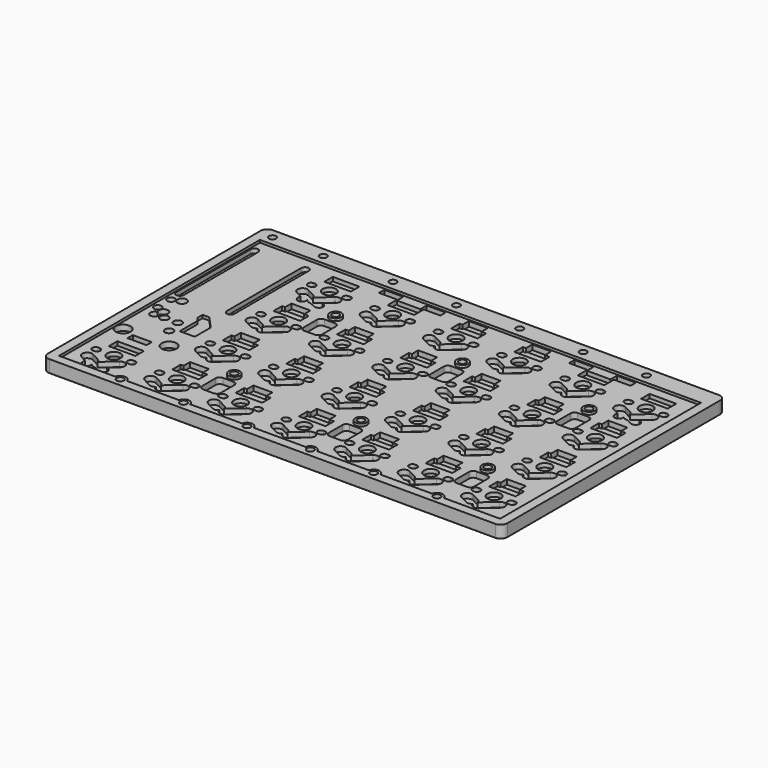
from build123d import *

# Parameters (mm, degrees)
PAD011_DEPTH    = 3
FILLET005_R     = 0.1
SKETCH025_R     = 2
POCKET008_DEPTH = 1.2
POCKET009_DEPTH = 1.5
POCKET017_DEPTH = 1.5
SKETCH027_W     = 8
SKETCH027_H     = 3.2
POCKET012_DEPTH = 1.2
POCKET013_DEPTH = 1.8
SKETCH031_W     = 5.7
SKETCH031_H     = 2
POCKET015_DEPTH = 1.5
SKETCH102_W     = 5.7
SKETCH102_H     = 0.4
SKETCH102_W_2   = 0.225
SKETCH102_W_3   = 0.725
POCKET068_DEPTH = 1.2
POCKET023_DEPTH = 0.9
POCKET021_DEPTH = 1.3
SKETCH034_R     = 2.25
SKETCH034_R_2   = 1.15
SKETCH034_R_3   = 1.4
SKETCH034_R_4   = 1.25
POCKET019_DEPTH = 1.7
PAD027_DEPTH    = 0.75
SKETCH071_W     = 132.6
SKETCH071_H     = 75.5
POCKET052_DEPTH = 0.75
SKETCH073_R     = 1.75
PAD025_DEPTH    = 0.75
SKETCH044_R     = 1.075
POCKET025_DEPTH = 4.501


with BuildPart() as part:
    # Sketch024 → Pad011 (new body)
    with BuildSketch(Plane.XY):
        with BuildLine():
            Line((9.15, 91.1), (143.25, 91.1))
            ThreePointArc((145.25, 89.1), (144.664214, 90.514214), (143.25, 91.1))
            Line((145.25, 89.1), (145.25, 9.15))
            ThreePointArc((143.25, 7.15), (144.664214, 7.735786), (145.25, 9.15))
            Line((143.25, 7.15), (9.15, 7.15))
            ThreePointArc((7.15, 9.15), (7.735786, 7.735786), (9.15, 7.15))
            Line((7.15, 9.15), (7.15, 89.1))
            ThreePointArc((9.15, 91.1), (7.735786, 90.514214), (7.15, 89.1))
        make_face()
    extrude(amount=-PAD011_DEPTH)

    # Fillet005
    fillet005_edges = [part.edges().sort_by_distance(p)[0] for p in [
        (76.2, 7.15, -3),
        (144.664214, 7.735786, -3),
        (145.25, 49.125, -3),
        (144.664214, 90.514214, -3),
        (76.2, 91.1, -3),
        (7.735786, 90.514214, -3),
        (7.15, 49.125, -3),
        (7.735786, 7.735786, -3),
    ]]
    fillet(fillet005_edges, radius=FILLET005_R)

    # Sketch025 → Pocket008 (cut)
    with BuildSketch(Plane.XY):
        with Locations((38.1, 76.2)):
            Circle(SKETCH025_R)
        with Locations((57.15, 76.2)):
            Circle(SKETCH025_R)
        with Locations((76.2, 76.2)):
            Circle(SKETCH025_R)
        with Locations((95.25, 76.2)):
            Circle(SKETCH025_R)
        with Locations((114.3, 76.2)):
            Circle(SKETCH025_R)
        with Locations((133.35, 76.2)):
            Circle(SKETCH025_R)
        with Locations((38.1, 57.15)):
            Circle(SKETCH025_R)
        with Locations((57.15, 57.15)):
            Circle(SKETCH025_R)
        with Locations((76.2, 57.15)):
            Circle(SKETCH025_R)
        with Locations((95.25, 57.15)):
            Circle(SKETCH025_R)
        with Locations((114.3, 57.15)):
            Circle(SKETCH025_R)
        with Locations((133.35, 57.15)):
            Circle(SKETCH025_R)
        with Locations((38.1, 38.1)):
            Circle(SKETCH025_R)
        with Locations((57.15, 38.1)):
            Circle(SKETCH025_R)
        with Locations((76.2, 38.1)):
            Circle(SKETCH025_R)
        with Locations((95.25, 38.1)):
            Circle(SKETCH025_R)
        with Locations((114.3, 38.1)):
            Circle(SKETCH025_R)
        with Locations((133.35, 38.1)):
            Circle(SKETCH025_R)
        with Locations((38.1, 19.05)):
            Circle(SKETCH025_R)
        with Locations((57.15, 19.05)):
            Circle(SKETCH025_R)
        with Locations((76.2, 19.05)):
            Circle(SKETCH025_R)
        with Locations((95.25, 19.05)):
            Circle(SKETCH025_R)
        with Locations((114.3, 19.05)):
            Circle(SKETCH025_R)
        with Locations((133.35, 19.05)):
            Circle(SKETCH025_R)
        with Locations((19.05, 19.05)):
            Circle(SKETCH025_R)
        with BuildLine():
            ThreePointArc((32.6, 77.2), (31.6, 76.2), (32.6, 75.2))
            Line((32.6, 75.2), (33.02, 75.2))
            ThreePointArc((33.02, 75.2), (34.02, 76.2), (33.02, 77.2))
            Line((32.6, 77.2), (33.02, 77.2))
        make_face()
        with BuildLine():
            ThreePointArc((43.18, 77.2), (42.18, 76.2), (43.18, 75.2))
            Line((43.18, 75.2), (43.6, 75.2))
            ThreePointArc((43.6, 75.2), (44.6, 76.2), (43.6, 77.2))
            Line((43.18, 77.2), (43.6, 77.2))
        make_face()
        with BuildLine():
            ThreePointArc((51.65, 77.2), (50.65, 76.2), (51.65, 75.2))
            Line((51.65, 75.2), (52.07, 75.2))
            ThreePointArc((52.07, 75.2), (53.07, 76.2), (52.07, 77.2))
            Line((51.65, 77.2), (52.07, 77.2))
        make_face()
        with BuildLine():
            ThreePointArc((62.23, 77.2), (61.23, 76.2), (62.23, 75.2))
            Line((62.23, 75.2), (62.65, 75.2))
            ThreePointArc((62.65, 75.2), (63.65, 76.2), (62.65, 77.2))
            Line((62.23, 77.2), (62.65, 77.2))
        make_face()
        with BuildLine():
            ThreePointArc((70.7, 77.2), (69.7, 76.2), (70.7, 75.2))
            Line((70.7, 75.2), (71.12, 75.2))
            ThreePointArc((71.12, 75.2), (72.12, 76.2), (71.12, 77.2))
            Line((70.7, 77.2), (71.12, 77.2))
        make_face()
        with BuildLine():
            ThreePointArc((81.28, 77.2), (80.28, 76.2), (81.28, 75.2))
            Line((81.28, 75.2), (81.7, 75.2))
            ThreePointArc((81.7, 75.2), (82.7, 76.2), (81.7, 77.2))
            Line((81.28, 77.2), (81.7, 77.2))
        make_face()
        with BuildLine():
            ThreePointArc((89.75, 77.2), (88.75, 76.2), (89.75, 75.2))
            Line((89.75, 75.2), (90.17, 75.2))
            ThreePointArc((90.17, 75.2), (91.17, 76.2), (90.17, 77.2))
            Line((89.75, 77.2), (90.17, 77.2))
        make_face()
        with BuildLine():
            ThreePointArc((100.33, 77.2), (99.33, 76.2), (100.33, 75.2))
            Line((100.33, 75.2), (100.75, 75.2))
            ThreePointArc((100.75, 75.2), (101.75, 76.2), (100.75, 77.2))
            Line((100.33, 77.2), (100.75, 77.2))
        make_face()
        with BuildLine():
            ThreePointArc((108.8, 77.2), (107.8, 76.2), (108.8, 75.2))
            Line((108.8, 75.2), (109.22, 75.2))
            ThreePointArc((109.22, 75.2), (110.22, 76.2), (109.22, 77.2))
            Line((108.8, 77.2), (109.22, 77.2))
        make_face()
        with BuildLine():
            ThreePointArc((119.38, 77.2), (118.38, 76.2), (119.38, 75.2))
            Line((119.38, 75.2), (119.8, 75.2))
            ThreePointArc((119.8, 75.2), (120.8, 76.2), (119.8, 77.2))
            Line((119.38, 77.2), (119.8, 77.2))
        make_face()
        with BuildLine():
            ThreePointArc((127.85, 77.2), (126.85, 76.2), (127.85, 75.2))
            Line((127.85, 75.2), (128.27, 75.2))
            ThreePointArc((128.27, 75.2), (129.27, 76.2), (128.27, 77.2))
            Line((127.85, 77.2), (128.27, 77.2))
        make_face()
        with BuildLine():
            ThreePointArc((138.43, 77.2), (137.43, 76.2), (138.43, 75.2))
            Line((138.43, 75.2), (138.85, 75.2))
            ThreePointArc((138.85, 75.2), (139.85, 76.2), (138.85, 77.2))
            Line((138.43, 77.2), (138.85, 77.2))
        make_face()
        with BuildLine():
            ThreePointArc((32.6, 58.15), (31.6, 57.15), (32.6, 56.15))
            Line((32.6, 56.15), (33.02, 56.15))
            ThreePointArc((33.02, 56.15), (34.02, 57.15), (33.02, 58.15))
            Line((32.6, 58.15), (33.02, 58.15))
        make_face()
        with BuildLine():
            ThreePointArc((43.18, 58.15), (42.18, 57.15), (43.18, 56.15))
            Line((43.18, 56.15), (43.6, 56.15))
            ThreePointArc((43.6, 56.15), (44.6, 57.15), (43.6, 58.15))
            Line((43.18, 58.15), (43.6, 58.15))
        make_face()
        with BuildLine():
            ThreePointArc((51.65, 58.15), (50.65, 57.15), (51.65, 56.15))
            Line((51.65, 56.15), (52.07, 56.15))
            ThreePointArc((52.07, 56.15), (53.07, 57.15), (52.07, 58.15))
            Line((51.65, 58.15), (52.07, 58.15))
        make_face()
        with BuildLine():
            ThreePointArc((62.23, 58.15), (61.23, 57.15), (62.23, 56.15))
            Line((62.23, 56.15), (62.65, 56.15))
            ThreePointArc((62.65, 56.15), (63.65, 57.15), (62.65, 58.15))
            Line((62.23, 58.15), (62.65, 58.15))
        make_face()
        with BuildLine():
            ThreePointArc((70.7, 58.15), (69.7, 57.15), (70.7, 56.15))
            Line((70.7, 56.15), (71.12, 56.15))
            ThreePointArc((71.12, 56.15), (72.12, 57.15), (71.12, 58.15))
            Line((70.7, 58.15), (71.12, 58.15))
        make_face()
        with BuildLine():
            ThreePointArc((81.28, 58.15), (80.28, 57.15), (81.28, 56.15))
            Line((81.28, 56.15), (81.7, 56.15))
            ThreePointArc((81.7, 56.15), (82.7, 57.15), (81.7, 58.15))
            Line((81.28, 58.15), (81.7, 58.15))
        make_face()
        with BuildLine():
            ThreePointArc((89.75, 58.15), (88.75, 57.15), (89.75, 56.15))
            Line((89.75, 56.15), (90.17, 56.15))
            ThreePointArc((90.17, 56.15), (91.17, 57.15), (90.17, 58.15))
            Line((89.75, 58.15), (90.17, 58.15))
        make_face()
        with BuildLine():
            ThreePointArc((100.33, 58.15), (99.33, 57.15), (100.33, 56.15))
            Line((100.33, 56.15), (100.75, 56.15))
            ThreePointArc((100.75, 56.15), (101.75, 57.15), (100.75, 58.15))
            Line((100.33, 58.15), (100.75, 58.15))
        make_face()
        with BuildLine():
            ThreePointArc((108.8, 58.15), (107.8, 57.15), (108.8, 56.15))
            Line((108.8, 56.15), (109.22, 56.15))
            ThreePointArc((109.22, 56.15), (110.22, 57.15), (109.22, 58.15))
            Line((108.8, 58.15), (109.22, 58.15))
        make_face()
        with BuildLine():
            ThreePointArc((119.38, 58.15), (118.38, 57.15), (119.38, 56.15))
            Line((119.38, 56.15), (119.8, 56.15))
            ThreePointArc((119.8, 56.15), (120.8, 57.15), (119.8, 58.15))
            Line((119.38, 58.15), (119.8, 58.15))
        make_face()
        with BuildLine():
            ThreePointArc((127.85, 58.15), (126.85, 57.15), (127.85, 56.15))
            Line((127.85, 56.15), (128.27, 56.15))
            ThreePointArc((128.27, 56.15), (129.27, 57.15), (128.27, 58.15))
            Line((127.85, 58.15), (128.27, 58.15))
        make_face()
        with BuildLine():
            ThreePointArc((138.43, 58.15), (137.43, 57.15), (138.43, 56.15))
            Line((138.43, 56.15), (138.85, 56.15))
            ThreePointArc((138.85, 56.15), (139.85, 57.15), (138.85, 58.15))
            Line((138.43, 58.15), (138.85, 58.15))
        make_face()
        with BuildLine():
            ThreePointArc((32.6, 39.1), (31.6, 38.1), (32.6, 37.1))
            Line((32.6, 37.1), (33.02, 37.1))
            ThreePointArc((33.02, 37.1), (34.02, 38.1), (33.02, 39.1))
            Line((32.6, 39.1), (33.02, 39.1))
        make_face()
        with BuildLine():
            ThreePointArc((43.18, 39.1), (42.18, 38.1), (43.18, 37.1))
            Line((43.18, 37.1), (43.6, 37.1))
            ThreePointArc((43.6, 37.1), (44.6, 38.1), (43.6, 39.1))
            Line((43.18, 39.1), (43.6, 39.1))
        make_face()
        with BuildLine():
            ThreePointArc((51.65, 39.1), (50.65, 38.1), (51.65, 37.1))
            Line((51.65, 37.1), (52.07, 37.1))
            ThreePointArc((52.07, 37.1), (53.07, 38.1), (52.07, 39.1))
            Line((51.65, 39.1), (52.07, 39.1))
        make_face()
        with BuildLine():
            ThreePointArc((62.23, 39.1), (61.23, 38.1), (62.23, 37.1))
            Line((62.23, 37.1), (62.65, 37.1))
            ThreePointArc((62.65, 37.1), (63.65, 38.1), (62.65, 39.1))
            Line((62.23, 39.1), (62.65, 39.1))
        make_face()
        with BuildLine():
            ThreePointArc((70.7, 39.1), (69.7, 38.1), (70.7, 37.1))
            Line((70.7, 37.1), (71.12, 37.1))
            ThreePointArc((71.12, 37.1), (72.12, 38.1), (71.12, 39.1))
            Line((70.7, 39.1), (71.12, 39.1))
        make_face()
        with BuildLine():
            ThreePointArc((81.28, 39.1), (80.28, 38.1), (81.28, 37.1))
            Line((81.28, 37.1), (81.7, 37.1))
            ThreePointArc((81.7, 37.1), (82.7, 38.1), (81.7, 39.1))
            Line((81.28, 39.1), (81.7, 39.1))
        make_face()
        with BuildLine():
            ThreePointArc((89.75, 39.1), (88.75, 38.1), (89.75, 37.1))
            Line((89.75, 37.1), (90.17, 37.1))
            ThreePointArc((90.17, 37.1), (91.17, 38.1), (90.17, 39.1))
            Line((89.75, 39.1), (90.17, 39.1))
        make_face()
        with BuildLine():
            ThreePointArc((100.33, 39.1), (99.33, 38.1), (100.33, 37.1))
            Line((100.33, 37.1), (100.75, 37.1))
            ThreePointArc((100.75, 37.1), (101.75, 38.1), (100.75, 39.1))
            Line((100.33, 39.1), (100.75, 39.1))
        make_face()
        with BuildLine():
            ThreePointArc((108.8, 39.1), (107.8, 38.1), (108.8, 37.1))
            Line((108.8, 37.1), (109.22, 37.1))
            ThreePointArc((109.22, 37.1), (110.22, 38.1), (109.22, 39.1))
            Line((108.8, 39.1), (109.22, 39.1))
        make_face()
        with BuildLine():
            ThreePointArc((119.38, 39.1), (118.38, 38.1), (119.38, 37.1))
            Line((119.38, 37.1), (119.8, 37.1))
            ThreePointArc((119.8, 37.1), (120.8, 38.1), (119.8, 39.1))
            Line((119.38, 39.1), (119.8, 39.1))
        make_face()
        with BuildLine():
            ThreePointArc((127.85, 39.1), (126.85, 38.1), (127.85, 37.1))
            Line((127.85, 37.1), (128.27, 37.1))
            ThreePointArc((128.27, 37.1), (129.27, 38.1), (128.27, 39.1))
            Line((127.85, 39.1), (128.27, 39.1))
        make_face()
        with BuildLine():
            ThreePointArc((138.43, 39.1), (137.43, 38.1), (138.43, 37.1))
            Line((138.43, 37.1), (138.85, 37.1))
            ThreePointArc((138.85, 37.1), (139.85, 38.1), (138.85, 39.1))
            Line((138.43, 39.1), (138.85, 39.1))
        make_face()
        with BuildLine():
            ThreePointArc((32.6, 20.05), (31.6, 19.05), (32.6, 18.05))
            Line((32.6, 18.05), (33.02, 18.05))
            ThreePointArc((33.02, 18.05), (34.02, 19.05), (33.02, 20.05))
            Line((32.6, 20.05), (33.02, 20.05))
        make_face()
        with BuildLine():
            ThreePointArc((43.18, 20.05), (42.18, 19.05), (43.18, 18.05))
            Line((43.18, 18.05), (43.6, 18.05))
            ThreePointArc((43.6, 18.05), (44.6, 19.05), (43.6, 20.05))
            Line((43.18, 20.05), (43.6, 20.05))
        make_face()
        with BuildLine():
            ThreePointArc((51.65, 20.05), (50.65, 19.05), (51.65, 18.05))
            Line((51.65, 18.05), (52.07, 18.05))
            ThreePointArc((52.07, 18.05), (53.07, 19.05), (52.07, 20.05))
            Line((51.65, 20.05), (52.07, 20.05))
        make_face()
        with BuildLine():
            ThreePointArc((62.23, 20.05), (61.23, 19.05), (62.23, 18.05))
            Line((62.23, 18.05), (62.65, 18.05))
            ThreePointArc((62.65, 18.05), (63.65, 19.05), (62.65, 20.05))
            Line((62.23, 20.05), (62.65, 20.05))
        make_face()
        with BuildLine():
            ThreePointArc((70.7, 20.05), (69.7, 19.05), (70.7, 18.05))
            Line((70.7, 18.05), (71.12, 18.05))
            ThreePointArc((71.12, 18.05), (72.12, 19.05), (71.12, 20.05))
            Line((70.7, 20.05), (71.12, 20.05))
        make_face()
        with BuildLine():
            ThreePointArc((81.28, 20.05), (80.28, 19.05), (81.28, 18.05))
            Line((81.28, 18.05), (81.7, 18.05))
            ThreePointArc((81.7, 18.05), (82.7, 19.05), (81.7, 20.05))
            Line((81.28, 20.05), (81.7, 20.05))
        make_face()
        with BuildLine():
            ThreePointArc((89.75, 20.05), (88.75, 19.05), (89.75, 18.05))
            Line((89.75, 18.05), (90.17, 18.05))
            ThreePointArc((90.17, 18.05), (91.17, 19.05), (90.17, 20.05))
            Line((89.75, 20.05), (90.17, 20.05))
        make_face()
        with BuildLine():
            ThreePointArc((100.33, 20.05), (99.33, 19.05), (100.33, 18.05))
            Line((100.33, 18.05), (100.75, 18.05))
            ThreePointArc((100.75, 18.05), (101.75, 19.05), (100.75, 20.05))
            Line((100.33, 20.05), (100.75, 20.05))
        make_face()
        with BuildLine():
            ThreePointArc((108.8, 20.05), (107.8, 19.05), (108.8, 18.05))
            Line((108.8, 18.05), (109.22, 18.05))
            ThreePointArc((109.22, 18.05), (110.22, 19.05), (109.22, 20.05))
            Line((108.8, 20.05), (109.22, 20.05))
        make_face()
        with BuildLine():
            ThreePointArc((119.38, 20.05), (118.38, 19.05), (119.38, 18.05))
            Line((119.38, 18.05), (119.8, 18.05))
            ThreePointArc((119.8, 18.05), (120.8, 19.05), (119.8, 20.05))
            Line((119.38, 20.05), (119.8, 20.05))
        make_face()
        with BuildLine():
            ThreePointArc((127.85, 20.05), (126.85, 19.05), (127.85, 18.05))
            Line((127.85, 18.05), (128.27, 18.05))
            ThreePointArc((128.27, 18.05), (129.27, 19.05), (128.27, 20.05))
            Line((127.85, 20.05), (128.27, 20.05))
        make_face()
        with BuildLine():
            ThreePointArc((138.43, 20.05), (137.43, 19.05), (138.43, 18.05))
            Line((138.43, 18.05), (138.85, 18.05))
            ThreePointArc((138.85, 18.05), (139.85, 19.05), (138.85, 20.05))
            Line((138.43, 20.05), (138.85, 20.05))
        make_face()
        with BuildLine():
            ThreePointArc((13.55, 20.05), (12.55, 19.05), (13.55, 18.05))
            Line((13.55, 18.05), (13.97, 18.05))
            ThreePointArc((13.97, 18.05), (14.97, 19.05), (13.97, 20.05))
            Line((13.55, 20.05), (13.97, 20.05))
        make_face()
        with BuildLine():
            ThreePointArc((24.13, 20.05), (23.13, 19.05), (24.13, 18.05))
            Line((24.13, 18.05), (24.55, 18.05))
            ThreePointArc((24.55, 18.05), (25.55, 19.05), (24.55, 20.05))
            Line((24.13, 20.05), (24.55, 20.05))
        make_face()
    extrude(amount=-POCKET008_DEPTH, mode=Mode.SUBTRACT)

    # Sketch026 → Pocket009 (cut)
    with BuildSketch(Plane.XY):
        with BuildLine():
            ThreePointArc((42.902139, 72.534985), (43.035015, 74.652139), (40.917861, 74.785015))
            Line((40.917861, 74.785015), (37.107861, 71.425015))
            ThreePointArc((37.107861, 71.425015), (36.974985, 69.307861), (39.092139, 69.174985))
            Line((42.902139, 72.534985), (39.092139, 69.174985))
        make_face()
        with BuildLine():
            ThreePointArc((33.79237, 73.730648), (31.769352, 73.09237), (32.40763, 71.069352))
            Line((32.40763, 71.069352), (34.86763, 69.789352))
            ThreePointArc((34.86763, 69.789352), (36.890648, 70.42763), (36.25237, 72.450648))
            Line((33.79237, 73.730648), (36.25237, 72.450648))
        make_face()
        with BuildLine():
            ThreePointArc((61.952139, 72.534985), (62.085015, 74.652139), (59.967861, 74.785015))
            Line((59.967861, 74.785015), (56.157861, 71.425015))
            ThreePointArc((56.157861, 71.425015), (56.024985, 69.307861), (58.142139, 69.174985))
            Line((61.952139, 72.534985), (58.142139, 69.174985))
        make_face()
        with BuildLine():
            ThreePointArc((52.84237, 73.730648), (50.819352, 73.09237), (51.45763, 71.069352))
            Line((51.45763, 71.069352), (53.91763, 69.789352))
            ThreePointArc((53.91763, 69.789352), (55.940648, 70.42763), (55.30237, 72.450648))
            Line((52.84237, 73.730648), (55.30237, 72.450648))
        make_face()
        with BuildLine():
            ThreePointArc((81.002139, 72.534985), (81.135015, 74.652139), (79.017861, 74.785015))
            Line((79.017861, 74.785015), (75.207861, 71.425015))
            ThreePointArc((75.207861, 71.425015), (75.074985, 69.307861), (77.192139, 69.174985))
            Line((81.002139, 72.534985), (77.192139, 69.174985))
        make_face()
        with BuildLine():
            ThreePointArc((71.89237, 73.730648), (69.869352, 73.09237), (70.50763, 71.069352))
            Line((70.50763, 71.069352), (72.96763, 69.789352))
            ThreePointArc((72.96763, 69.789352), (74.990648, 70.42763), (74.35237, 72.450648))
            Line((71.89237, 73.730648), (74.35237, 72.450648))
        make_face()
        with BuildLine():
            ThreePointArc((100.052139, 72.534985), (100.185015, 74.652139), (98.067861, 74.785015))
            Line((98.067861, 74.785015), (94.257861, 71.425015))
            ThreePointArc((94.257861, 71.425015), (94.124985, 69.307861), (96.242139, 69.174985))
            Line((100.052139, 72.534985), (96.242139, 69.174985))
        make_face()
        with BuildLine():
            ThreePointArc((90.94237, 73.730648), (88.919352, 73.09237), (89.55763, 71.069352))
            Line((89.55763, 71.069352), (92.01763, 69.789352))
            ThreePointArc((92.01763, 69.789352), (94.040648, 70.42763), (93.40237, 72.450648))
            Line((90.94237, 73.730648), (93.40237, 72.450648))
        make_face()
        with BuildLine():
            ThreePointArc((119.102139, 72.534985), (119.235015, 74.652139), (117.117861, 74.785015))
            Line((117.117861, 74.785015), (113.307861, 71.425015))
            ThreePointArc((113.307861, 71.425015), (113.174985, 69.307861), (115.292139, 69.174985))
            Line((119.102139, 72.534985), (115.292139, 69.174985))
        make_face()
        with BuildLine():
            ThreePointArc((109.99237, 73.730648), (107.969352, 73.09237), (108.60763, 71.069352))
            Line((108.60763, 71.069352), (111.06763, 69.789352))
            ThreePointArc((111.06763, 69.789352), (113.090648, 70.42763), (112.45237, 72.450648))
            Line((109.99237, 73.730648), (112.45237, 72.450648))
        make_face()
        with BuildLine():
            ThreePointArc((138.152139, 72.534985), (138.285015, 74.652139), (136.167861, 74.785015))
            Line((136.167861, 74.785015), (132.357861, 71.425015))
            ThreePointArc((132.357861, 71.425015), (132.224985, 69.307861), (134.342139, 69.174985))
            Line((138.152139, 72.534985), (134.342139, 69.174985))
        make_face()
        with BuildLine():
            ThreePointArc((129.04237, 73.730648), (127.019352, 73.09237), (127.65763, 71.069352))
            Line((127.65763, 71.069352), (130.11763, 69.789352))
            ThreePointArc((130.11763, 69.789352), (132.140648, 70.42763), (131.50237, 72.450648))
            Line((129.04237, 73.730648), (131.50237, 72.450648))
        make_face()
        with BuildLine():
            ThreePointArc((42.902139, 53.484985), (43.035015, 55.602139), (40.917861, 55.735015))
            Line((40.917861, 55.735015), (37.107861, 52.375015))
            ThreePointArc((37.107861, 52.375015), (36.974985, 50.257861), (39.092139, 50.124985))
            Line((42.902139, 53.484985), (39.092139, 50.124985))
        make_face()
        with BuildLine():
            ThreePointArc((33.79237, 54.680648), (31.769352, 54.04237), (32.40763, 52.019352))
            Line((32.40763, 52.019352), (34.86763, 50.739352))
            ThreePointArc((34.86763, 50.739352), (36.890648, 51.37763), (36.25237, 53.400648))
            Line((33.79237, 54.680648), (36.25237, 53.400648))
        make_face()
        with BuildLine():
            ThreePointArc((61.952139, 53.484985), (62.085015, 55.602139), (59.967861, 55.735015))
            Line((59.967861, 55.735015), (56.157861, 52.375015))
            ThreePointArc((56.157861, 52.375015), (56.024985, 50.257861), (58.142139, 50.124985))
            Line((61.952139, 53.484985), (58.142139, 50.124985))
        make_face()
        with BuildLine():
            ThreePointArc((52.84237, 54.680648), (50.819352, 54.04237), (51.45763, 52.019352))
            Line((51.45763, 52.019352), (53.91763, 50.739352))
            ThreePointArc((53.91763, 50.739352), (55.940648, 51.37763), (55.30237, 53.400648))
            Line((52.84237, 54.680648), (55.30237, 53.400648))
        make_face()
        with BuildLine():
            ThreePointArc((81.002139, 53.484985), (81.135015, 55.602139), (79.017861, 55.735015))
            Line((79.017861, 55.735015), (75.207861, 52.375015))
            ThreePointArc((75.207861, 52.375015), (75.074985, 50.257861), (77.192139, 50.124985))
            Line((81.002139, 53.484985), (77.192139, 50.124985))
        make_face()
        with BuildLine():
            ThreePointArc((71.89237, 54.680648), (69.869352, 54.04237), (70.50763, 52.019352))
            Line((70.50763, 52.019352), (72.96763, 50.739352))
            ThreePointArc((72.96763, 50.739352), (74.990648, 51.37763), (74.35237, 53.400648))
            Line((71.89237, 54.680648), (74.35237, 53.400648))
        make_face()
        with BuildLine():
            ThreePointArc((100.052139, 53.484985), (100.185015, 55.602139), (98.067861, 55.735015))
            Line((98.067861, 55.735015), (94.257861, 52.375015))
            ThreePointArc((94.257861, 52.375015), (94.124985, 50.257861), (96.242139, 50.124985))
            Line((100.052139, 53.484985), (96.242139, 50.124985))
        make_face()
        with BuildLine():
            ThreePointArc((90.94237, 54.680648), (88.919352, 54.04237), (89.55763, 52.019352))
            Line((89.55763, 52.019352), (92.01763, 50.739352))
            ThreePointArc((92.01763, 50.739352), (94.040648, 51.37763), (93.40237, 53.400648))
            Line((90.94237, 54.680648), (93.40237, 53.400648))
        make_face()
        with BuildLine():
            ThreePointArc((119.102139, 53.484985), (119.235015, 55.602139), (117.117861, 55.735015))
            Line((117.117861, 55.735015), (113.307861, 52.375015))
            ThreePointArc((113.307861, 52.375015), (113.174985, 50.257861), (115.292139, 50.124985))
            Line((119.102139, 53.484985), (115.292139, 50.124985))
        make_face()
        with BuildLine():
            ThreePointArc((109.99237, 54.680648), (107.969352, 54.04237), (108.60763, 52.019352))
            Line((108.60763, 52.019352), (111.06763, 50.739352))
            ThreePointArc((111.06763, 50.739352), (113.090648, 51.37763), (112.45237, 53.400648))
            Line((109.99237, 54.680648), (112.45237, 53.400648))
        make_face()
        with BuildLine():
            ThreePointArc((138.152139, 53.484985), (138.285015, 55.602139), (136.167861, 55.735015))
            Line((136.167861, 55.735015), (132.357861, 52.375015))
            ThreePointArc((132.357861, 52.375015), (132.224985, 50.257861), (134.342139, 50.124985))
            Line((138.152139, 53.484985), (134.342139, 50.124985))
        make_face()
        with BuildLine():
            ThreePointArc((129.04237, 54.680648), (127.019352, 54.04237), (127.65763, 52.019352))
            Line((127.65763, 52.019352), (130.11763, 50.739352))
            ThreePointArc((130.11763, 50.739352), (132.140648, 51.37763), (131.50237, 53.400648))
            Line((129.04237, 54.680648), (131.50237, 53.400648))
        make_face()
        with BuildLine():
            ThreePointArc((42.902139, 34.434985), (43.035015, 36.552139), (40.917861, 36.685015))
            Line((40.917861, 36.685015), (37.107861, 33.325015))
            ThreePointArc((37.107861, 33.325015), (36.974985, 31.207861), (39.092139, 31.074985))
            Line((42.902139, 34.434985), (39.092139, 31.074985))
        make_face()
        with BuildLine():
            ThreePointArc((33.79237, 35.630648), (31.769352, 34.99237), (32.40763, 32.969352))
            Line((32.40763, 32.969352), (34.86763, 31.689352))
            ThreePointArc((34.86763, 31.689352), (36.890648, 32.32763), (36.25237, 34.350648))
            Line((33.79237, 35.630648), (36.25237, 34.350648))
        make_face()
        with BuildLine():
            ThreePointArc((61.952139, 34.434985), (62.085015, 36.552139), (59.967861, 36.685015))
            Line((59.967861, 36.685015), (56.157861, 33.325015))
            ThreePointArc((56.157861, 33.325015), (56.024985, 31.207861), (58.142139, 31.074985))
            Line((61.952139, 34.434985), (58.142139, 31.074985))
        make_face()
        with BuildLine():
            ThreePointArc((52.84237, 35.630648), (50.819352, 34.99237), (51.45763, 32.969352))
            Line((51.45763, 32.969352), (53.91763, 31.689352))
            ThreePointArc((53.91763, 31.689352), (55.940648, 32.32763), (55.30237, 34.350648))
            Line((52.84237, 35.630648), (55.30237, 34.350648))
        make_face()
        with BuildLine():
            ThreePointArc((81.002139, 34.434985), (81.135015, 36.552139), (79.017861, 36.685015))
            Line((79.017861, 36.685015), (75.207861, 33.325015))
            ThreePointArc((75.207861, 33.325015), (75.074985, 31.207861), (77.192139, 31.074985))
            Line((81.002139, 34.434985), (77.192139, 31.074985))
        make_face()
        with BuildLine():
            ThreePointArc((71.89237, 35.630648), (69.869352, 34.99237), (70.50763, 32.969352))
            Line((70.50763, 32.969352), (72.96763, 31.689352))
            ThreePointArc((72.96763, 31.689352), (74.990648, 32.32763), (74.35237, 34.350648))
            Line((71.89237, 35.630648), (74.35237, 34.350648))
        make_face()
        with BuildLine():
            ThreePointArc((100.052139, 34.434985), (100.185015, 36.552139), (98.067861, 36.685015))
            Line((98.067861, 36.685015), (94.257861, 33.325015))
            ThreePointArc((94.257861, 33.325015), (94.124985, 31.207861), (96.242139, 31.074985))
            Line((100.052139, 34.434985), (96.242139, 31.074985))
        make_face()
        with BuildLine():
            ThreePointArc((90.94237, 35.630648), (88.919352, 34.99237), (89.55763, 32.969352))
            Line((89.55763, 32.969352), (92.01763, 31.689352))
            ThreePointArc((92.01763, 31.689352), (94.040648, 32.32763), (93.40237, 34.350648))
            Line((90.94237, 35.630648), (93.40237, 34.350648))
        make_face()
        with BuildLine():
            ThreePointArc((119.102139, 34.434985), (119.235015, 36.552139), (117.117861, 36.685015))
            Line((117.117861, 36.685015), (113.307861, 33.325015))
            ThreePointArc((113.307861, 33.325015), (113.174985, 31.207861), (115.292139, 31.074985))
            Line((119.102139, 34.434985), (115.292139, 31.074985))
        make_face()
        with BuildLine():
            ThreePointArc((109.99237, 35.630648), (107.969352, 34.99237), (108.60763, 32.969352))
            Line((108.60763, 32.969352), (111.06763, 31.689352))
            ThreePointArc((111.06763, 31.689352), (113.090648, 32.32763), (112.45237, 34.350648))
            Line((109.99237, 35.630648), (112.45237, 34.350648))
        make_face()
        with BuildLine():
            ThreePointArc((138.152139, 34.434985), (138.285015, 36.552139), (136.167861, 36.685015))
            Line((136.167861, 36.685015), (132.357861, 33.325015))
            ThreePointArc((132.357861, 33.325015), (132.224985, 31.207861), (134.342139, 31.074985))
            Line((138.152139, 34.434985), (134.342139, 31.074985))
        make_face()
        with BuildLine():
            ThreePointArc((129.04237, 35.630648), (127.019352, 34.99237), (127.65763, 32.969352))
            Line((127.65763, 32.969352), (130.11763, 31.689352))
            ThreePointArc((130.11763, 31.689352), (132.140648, 32.32763), (131.50237, 34.350648))
            Line((129.04237, 35.630648), (131.50237, 34.350648))
        make_face()
        with BuildLine():
            ThreePointArc((42.902139, 15.384985), (43.035015, 17.502139), (40.917861, 17.635015))
            Line((40.917861, 17.635015), (37.107861, 14.275015))
            ThreePointArc((37.107861, 14.275015), (36.974985, 12.157861), (39.092139, 12.024985))
            Line((42.902139, 15.384985), (39.092139, 12.024985))
        make_face()
        with BuildLine():
            ThreePointArc((33.79237, 16.580648), (31.769352, 15.94237), (32.40763, 13.919352))
            Line((32.40763, 13.919352), (34.86763, 12.639352))
            ThreePointArc((34.86763, 12.639352), (36.890648, 13.27763), (36.25237, 15.300648))
            Line((33.79237, 16.580648), (36.25237, 15.300648))
        make_face()
        with BuildLine():
            ThreePointArc((61.952139, 15.384985), (62.085015, 17.502139), (59.967861, 17.635015))
            Line((59.967861, 17.635015), (56.157861, 14.275015))
            ThreePointArc((56.157861, 14.275015), (56.024985, 12.157861), (58.142139, 12.024985))
            Line((61.952139, 15.384985), (58.142139, 12.024985))
        make_face()
        with BuildLine():
            ThreePointArc((52.84237, 16.580648), (50.819352, 15.94237), (51.45763, 13.919352))
            Line((51.45763, 13.919352), (53.91763, 12.639352))
            ThreePointArc((53.91763, 12.639352), (55.940648, 13.27763), (55.30237, 15.300648))
            Line((52.84237, 16.580648), (55.30237, 15.300648))
        make_face()
        with BuildLine():
            ThreePointArc((81.002139, 15.384985), (81.135015, 17.502139), (79.017861, 17.635015))
            Line((79.017861, 17.635015), (75.207861, 14.275015))
            ThreePointArc((75.207861, 14.275015), (75.074985, 12.157861), (77.192139, 12.024985))
            Line((81.002139, 15.384985), (77.192139, 12.024985))
        make_face()
        with BuildLine():
            ThreePointArc((71.89237, 16.580648), (69.869352, 15.94237), (70.50763, 13.919352))
            Line((70.50763, 13.919352), (72.96763, 12.639352))
            ThreePointArc((72.96763, 12.639352), (74.990648, 13.27763), (74.35237, 15.300648))
            Line((71.89237, 16.580648), (74.35237, 15.300648))
        make_face()
        with BuildLine():
            ThreePointArc((100.052139, 15.384985), (100.185015, 17.502139), (98.067861, 17.635015))
            Line((98.067861, 17.635015), (94.257861, 14.275015))
            ThreePointArc((94.257861, 14.275015), (94.124985, 12.157861), (96.242139, 12.024985))
            Line((100.052139, 15.384985), (96.242139, 12.024985))
        make_face()
        with BuildLine():
            ThreePointArc((90.94237, 16.580648), (88.919352, 15.94237), (89.55763, 13.919352))
            Line((89.55763, 13.919352), (92.01763, 12.639352))
            ThreePointArc((92.01763, 12.639352), (94.040648, 13.27763), (93.40237, 15.300648))
            Line((90.94237, 16.580648), (93.40237, 15.300648))
        make_face()
        with BuildLine():
            ThreePointArc((119.102139, 15.384985), (119.235015, 17.502139), (117.117861, 17.635015))
            Line((117.117861, 17.635015), (113.307861, 14.275015))
            ThreePointArc((113.307861, 14.275015), (113.174985, 12.157861), (115.292139, 12.024985))
            Line((119.102139, 15.384985), (115.292139, 12.024985))
        make_face()
        with BuildLine():
            ThreePointArc((109.99237, 16.580648), (107.969352, 15.94237), (108.60763, 13.919352))
            Line((108.60763, 13.919352), (111.06763, 12.639352))
            ThreePointArc((111.06763, 12.639352), (113.090648, 13.27763), (112.45237, 15.300648))
            Line((109.99237, 16.580648), (112.45237, 15.300648))
        make_face()
        with BuildLine():
            ThreePointArc((138.152139, 15.384985), (138.285015, 17.502139), (136.167861, 17.635015))
            Line((136.167861, 17.635015), (132.357861, 14.275015))
            ThreePointArc((132.357861, 14.275015), (132.224985, 12.157861), (134.342139, 12.024985))
            Line((138.152139, 15.384985), (134.342139, 12.024985))
        make_face()
        with BuildLine():
            ThreePointArc((129.04237, 16.580648), (127.019352, 15.94237), (127.65763, 13.919352))
            Line((127.65763, 13.919352), (130.11763, 12.639352))
            ThreePointArc((130.11763, 12.639352), (132.140648, 13.27763), (131.50237, 15.300648))
            Line((129.04237, 16.580648), (131.50237, 15.300648))
        make_face()
        with BuildLine():
            ThreePointArc((23.852139, 15.384985), (23.985015, 17.502139), (21.867861, 17.635015))
            Line((21.867861, 17.635015), (18.057861, 14.275015))
            ThreePointArc((18.057861, 14.275015), (17.924985, 12.157861), (20.042139, 12.024985))
            Line((23.852139, 15.384985), (20.042139, 12.024985))
        make_face()
        with BuildLine():
            ThreePointArc((14.74237, 16.580648), (12.719352, 15.94237), (13.35763, 13.919352))
            Line((13.35763, 13.919352), (15.81763, 12.639352))
            ThreePointArc((15.81763, 12.639352), (17.840648, 13.27763), (17.20237, 15.300648))
            Line((14.74237, 16.580648), (17.20237, 15.300648))
        make_face()
    extrude(amount=-POCKET009_DEPTH, mode=Mode.SUBTRACT)

    # Sketch032 → Pocket017 (cut)
    with BuildSketch(Plane.XY):
        with BuildLine():
            ThreePointArc((19.576651, 14.283639), (17.916361, 13.676651), (18.523349, 12.016361))
            Line((18.523349, 12.016361), (21.063349, 10.836361))
            ThreePointArc((21.063349, 10.836361), (22.723639, 11.443349), (22.116651, 13.103639))
            Line((19.576651, 14.283639), (22.116651, 13.103639))
        make_face()
        with BuildLine():
            ThreePointArc((17.76, 13.97), (16.51, 15.22), (15.26, 13.97))
            Line((15.26, 13.97), (15.26, 11.97))
            ThreePointArc((15.26, 11.97), (16.51, 10.72), (17.76, 11.97))
            Line((17.76, 13.97), (17.76, 11.97))
        make_face()
        with BuildLine():
            ThreePointArc((133.876651, 71.433639), (132.216361, 70.826651), (132.823349, 69.166361))
            Line((132.823349, 69.166361), (135.363349, 67.986361))
            ThreePointArc((135.363349, 67.986361), (137.023639, 68.593349), (136.416651, 70.253639))
            Line((133.876651, 71.433639), (136.416651, 70.253639))
        make_face()
        with BuildLine():
            ThreePointArc((132.06, 71.12), (130.81, 72.37), (129.56, 71.12))
            Line((129.56, 71.12), (129.56, 69.12))
            ThreePointArc((129.56, 69.12), (130.81, 67.87), (132.06, 69.12))
            Line((132.06, 71.12), (132.06, 69.12))
        make_face()
        with BuildLine():
            ThreePointArc((38.626651, 71.433639), (36.966361, 70.826651), (37.573349, 69.166361))
            Line((37.573349, 69.166361), (40.113349, 67.986361))
            ThreePointArc((40.113349, 67.986361), (41.773639, 68.593349), (41.166651, 70.253639))
            Line((38.626651, 71.433639), (41.166651, 70.253639))
        make_face()
        with BuildLine():
            ThreePointArc((36.81, 71.12), (35.56, 72.37), (34.31, 71.12))
            Line((34.31, 71.12), (34.31, 69.12))
            ThreePointArc((34.31, 69.12), (35.56, 67.87), (36.81, 69.12))
            Line((36.81, 71.12), (36.81, 69.12))
        make_face()
    extrude(amount=-POCKET017_DEPTH, mode=Mode.SUBTRACT)

    # Sketch027 → Pocket012 (cut)
    with BuildSketch(Plane.XY):
        with Locations((38.1, 80.9)):
            Rectangle(SKETCH027_W, SKETCH027_H)
        with Locations((57.15, 80.9)):
            Rectangle(SKETCH027_W, SKETCH027_H)
        with Locations((76.2, 80.9)):
            Rectangle(SKETCH027_W, SKETCH027_H)
        with Locations((95.25, 80.9)):
            Rectangle(SKETCH027_W, SKETCH027_H)
        with Locations((114.3, 80.9)):
            Rectangle(SKETCH027_W, SKETCH027_H)
        with Locations((133.35, 80.9)):
            Rectangle(SKETCH027_W, SKETCH027_H)
        with Locations((38.1, 61.85)):
            Rectangle(SKETCH027_W, SKETCH027_H)
        with Locations((57.15, 61.85)):
            Rectangle(SKETCH027_W, SKETCH027_H)
        with Locations((76.2, 61.85)):
            Rectangle(SKETCH027_W, SKETCH027_H)
        with Locations((95.25, 61.85)):
            Rectangle(SKETCH027_W, SKETCH027_H)
        with Locations((114.3, 61.85)):
            Rectangle(SKETCH027_W, SKETCH027_H)
        with Locations((133.35, 61.85)):
            Rectangle(SKETCH027_W, SKETCH027_H)
        with Locations((38.1, 42.8)):
            Rectangle(SKETCH027_W, SKETCH027_H)
        with Locations((57.15, 42.8)):
            Rectangle(SKETCH027_W, SKETCH027_H)
        with Locations((76.2, 42.8)):
            Rectangle(SKETCH027_W, SKETCH027_H)
        with Locations((95.25, 42.8)):
            Rectangle(SKETCH027_W, SKETCH027_H)
        with Locations((114.3, 42.8)):
            Rectangle(SKETCH027_W, SKETCH027_H)
        with Locations((133.35, 42.8)):
            Rectangle(SKETCH027_W, SKETCH027_H)
        with Locations((38.1, 23.75)):
            Rectangle(SKETCH027_W, SKETCH027_H)
        with Locations((57.15, 23.75)):
            Rectangle(SKETCH027_W, SKETCH027_H)
        with Locations((76.2, 23.75)):
            Rectangle(SKETCH027_W, SKETCH027_H)
        with Locations((95.25, 23.75)):
            Rectangle(SKETCH027_W, SKETCH027_H)
        with Locations((114.3, 23.75)):
            Rectangle(SKETCH027_W, SKETCH027_H)
        with Locations((133.35, 23.75)):
            Rectangle(SKETCH027_W, SKETCH027_H)
        with Locations((19.05, 23.75)):
            Rectangle(SKETCH027_W, SKETCH027_H)
    extrude(amount=-POCKET012_DEPTH, mode=Mode.SUBTRACT)

    # Sketch028 → Pocket013 (cut)
    with BuildSketch(Plane.XY):
        with BuildLine():
            Line((44.825, 63.2), (44.825, 58.1))
            ThreePointArc((44.825, 58.1), (45.176472, 57.251472), (46.025, 56.9))
            Line((46.025, 56.9), (49.225, 56.9))
            ThreePointArc((49.225, 56.9), (50.073528, 57.251472), (50.425, 58.1))
            Line((50.425, 58.1), (50.425, 63.2))
            ThreePointArc((50.425, 63.2), (50.073528, 64.048528), (49.225, 64.4))
            Line((49.225, 64.4), (46.025, 64.4))
            ThreePointArc((46.025, 64.4), (45.176472, 64.048528), (44.825, 63.2))
        make_face()
        with BuildLine():
            Line((82.925, 63.2), (82.925, 58.1))
            ThreePointArc((82.925, 58.1), (83.276472, 57.251472), (84.125, 56.9))
            Line((84.125, 56.9), (87.325, 56.9))
            ThreePointArc((87.325, 56.9), (88.173528, 57.251472), (88.525, 58.1))
            Line((88.525, 58.1), (88.525, 63.2))
            ThreePointArc((88.525, 63.2), (88.173528, 64.048528), (87.325, 64.4))
            Line((87.325, 64.4), (84.125, 64.4))
            ThreePointArc((84.125, 64.4), (83.276472, 64.048528), (82.925, 63.2))
        make_face()
        with BuildLine():
            Line((121.025, 63.2), (121.025, 58.1))
            ThreePointArc((121.025, 58.1), (121.376472, 57.251472), (122.225, 56.9))
            Line((122.225, 56.9), (125.425, 56.9))
            ThreePointArc((125.425, 56.9), (126.273528, 57.251472), (126.625, 58.1))
            Line((126.625, 58.1), (126.625, 63.2))
            ThreePointArc((126.625, 63.2), (126.273528, 64.048528), (125.425, 64.4))
            Line((125.425, 64.4), (122.225, 64.4))
            ThreePointArc((122.225, 64.4), (121.376472, 64.048528), (121.025, 63.2))
        make_face()
        with BuildLine():
            Line((44.825, 25.1), (44.825, 20))
            ThreePointArc((44.825, 20), (45.176472, 19.151472), (46.025, 18.8))
            Line((46.025, 18.8), (49.225, 18.8))
            ThreePointArc((49.225, 18.8), (50.073528, 19.151472), (50.425, 20))
            Line((50.425, 20), (50.425, 25.1))
            ThreePointArc((50.425, 25.1), (50.073528, 25.948528), (49.225, 26.3))
            Line((49.225, 26.3), (46.025, 26.3))
            ThreePointArc((46.025, 26.3), (45.176472, 25.948528), (44.825, 25.1))
        make_face()
        with BuildLine():
            Line((82.925, 25.1), (82.925, 20))
            ThreePointArc((82.925, 20), (83.276472, 19.151472), (84.125, 18.8))
            Line((84.125, 18.8), (87.325, 18.8))
            ThreePointArc((87.325, 18.8), (88.173528, 19.151472), (88.525, 20))
            Line((88.525, 20), (88.525, 25.1))
            ThreePointArc((88.525, 25.1), (88.173528, 25.948528), (87.325, 26.3))
            Line((87.325, 26.3), (84.125, 26.3))
            ThreePointArc((84.125, 26.3), (83.276472, 25.948528), (82.925, 25.1))
        make_face()
        with BuildLine():
            Line((121.025, 25.1), (121.025, 20))
            ThreePointArc((121.025, 20), (121.376472, 19.151472), (122.225, 18.8))
            Line((122.225, 18.8), (125.425, 18.8))
            ThreePointArc((125.425, 18.8), (126.273528, 19.151472), (126.625, 20))
            Line((126.625, 20), (126.625, 25.1))
            ThreePointArc((126.625, 25.1), (126.273528, 25.948528), (125.425, 26.3))
            Line((125.425, 26.3), (122.225, 26.3))
            ThreePointArc((122.225, 26.3), (121.376472, 25.948528), (121.025, 25.1))
        make_face()
    extrude(amount=-POCKET013_DEPTH, mode=Mode.SUBTRACT)

    # Sketch031 → Pocket015 (cut)
    with BuildSketch(Plane.XY):
        with Locations((50.525, 83.9)):
            Rectangle(SKETCH031_W, SKETCH031_H)
        with Locations((63.275, 83.9)):
            Rectangle(SKETCH031_W, SKETCH031_H)
        with Locations((75.95, 83.9)):
            Rectangle(SKETCH031_W, SKETCH031_H)
        with Locations((95, 83.9)):
            Rectangle(SKETCH031_W, SKETCH031_H)
        with Locations((107.675, 83.9)):
            Rectangle(SKETCH031_W, SKETCH031_H)
        with Locations((120.425, 83.9)):
            Rectangle(SKETCH031_W, SKETCH031_H)
        with Locations((37.85, 64.85)):
            Rectangle(SKETCH031_W, SKETCH031_H)
        with Locations((56.9, 64.85)):
            Rectangle(SKETCH031_W, SKETCH031_H)
        with Locations((75.95, 64.85)):
            Rectangle(SKETCH031_W, SKETCH031_H)
        with Locations((95, 64.85)):
            Rectangle(SKETCH031_W, SKETCH031_H)
        with Locations((114.05, 64.85)):
            Rectangle(SKETCH031_W, SKETCH031_H)
        with Locations((133.1, 64.85)):
            Rectangle(SKETCH031_W, SKETCH031_H)
        with Locations((37.85, 45.8)):
            Rectangle(SKETCH031_W, SKETCH031_H)
        with Locations((56.9, 45.8)):
            Rectangle(SKETCH031_W, SKETCH031_H)
        with Locations((75.95, 45.8)):
            Rectangle(SKETCH031_W, SKETCH031_H)
        with Locations((95, 45.8)):
            Rectangle(SKETCH031_W, SKETCH031_H)
        with Locations((114.05, 45.8)):
            Rectangle(SKETCH031_W, SKETCH031_H)
        with Locations((133.1, 45.8)):
            Rectangle(SKETCH031_W, SKETCH031_H)
        with Locations((37.85, 26.75)):
            Rectangle(SKETCH031_W, SKETCH031_H)
        with Locations((56.9, 26.75)):
            Rectangle(SKETCH031_W, SKETCH031_H)
        with Locations((75.95, 26.75)):
            Rectangle(SKETCH031_W, SKETCH031_H)
        with Locations((95, 26.75)):
            Rectangle(SKETCH031_W, SKETCH031_H)
        with Locations((114.05, 26.75)):
            Rectangle(SKETCH031_W, SKETCH031_H)
        with Locations((133.1, 26.75)):
            Rectangle(SKETCH031_W, SKETCH031_H)
        with Locations((18.8, 29.05)):
            Rectangle(SKETCH031_W, SKETCH031_H)
    extrude(amount=-POCKET015_DEPTH, mode=Mode.SUBTRACT)

    # Sketch102 → Pocket068 (cut)
    with BuildSketch(Plane.XY):
        with Locations((37.85, 25.55)):
            Rectangle(SKETCH102_W, SKETCH102_H)
        with Locations((56.9, 25.55)):
            Rectangle(SKETCH102_W, SKETCH102_H)
        with Locations((75.95, 25.55)):
            Rectangle(SKETCH102_W, SKETCH102_H)
        with Locations((95, 25.55)):
            Rectangle(SKETCH102_W, SKETCH102_H)
        with Locations((114.05, 25.55)):
            Rectangle(SKETCH102_W, SKETCH102_H)
        with Locations((133.1, 25.55)):
            Rectangle(SKETCH102_W, SKETCH102_H)
        with Locations((37.85, 44.6)):
            Rectangle(SKETCH102_W, SKETCH102_H)
        with Locations((56.9, 44.6)):
            Rectangle(SKETCH102_W, SKETCH102_H)
        with Locations((75.95, 44.6)):
            Rectangle(SKETCH102_W, SKETCH102_H)
        with Locations((95, 44.6)):
            Rectangle(SKETCH102_W, SKETCH102_H)
        with Locations((114.05, 44.6)):
            Rectangle(SKETCH102_W, SKETCH102_H)
        with Locations((133.1, 44.6)):
            Rectangle(SKETCH102_W, SKETCH102_H)
        with Locations((37.85, 63.65)):
            Rectangle(SKETCH102_W, SKETCH102_H)
        with Locations((56.9, 63.65)):
            Rectangle(SKETCH102_W, SKETCH102_H)
        with Locations((75.95, 63.65)):
            Rectangle(SKETCH102_W, SKETCH102_H)
        with Locations((95, 63.65)):
            Rectangle(SKETCH102_W, SKETCH102_H)
        with Locations((114.05, 63.65)):
            Rectangle(SKETCH102_W, SKETCH102_H)
        with Locations((133.1, 63.65)):
            Rectangle(SKETCH102_W, SKETCH102_H)
        with Locations((53.2625, 82.7)):
            Rectangle(SKETCH102_W_2, SKETCH102_H)
        with Locations((60.7875, 82.7)):
            Rectangle(SKETCH102_W_3, SKETCH102_H)
        with Locations((75.95, 82.7)):
            Rectangle(SKETCH102_W, SKETCH102_H)
        with Locations((95, 82.7)):
            Rectangle(SKETCH102_W, SKETCH102_H)
        with Locations((110.4125, 82.7)):
            Rectangle(SKETCH102_W_2, SKETCH102_H)
        with Locations((117.9375, 82.7)):
            Rectangle(SKETCH102_W_3, SKETCH102_H)
    extrude(amount=-POCKET068_DEPTH, mode=Mode.SUBTRACT)

    # Sketch042 → Pocket023 (cut)
    with BuildSketch(Plane.XY):
        Polygon((23.3, 45.244605), (23.3, 38.475), (27.84, 38.475), (27.84, 44.475), (24.3, 48.335), (22.3, 48.335), (22.3, 46.335), align=None)
    extrude(amount=-POCKET023_DEPTH, mode=Mode.SUBTRACT)

    # Sketch037 → Pocket021 (cut)
    with BuildSketch(Plane.XY):
        with BuildLine():
            ThreePointArc((12.58, 81.365), (11.43, 82.515), (10.28, 81.365))
            Line((10.28, 81.365), (10.28, 53.425))
            ThreePointArc((10.28, 53.425), (11.43, 52.275), (12.58, 53.425))
            Line((12.58, 81.365), (12.58, 53.425))
        make_face()
        with BuildLine():
            ThreePointArc((27.82, 81.365), (26.67, 82.515), (25.52, 81.365))
            Line((25.52, 81.365), (25.52, 53.425))
            ThreePointArc((25.52, 53.425), (26.67, 52.275), (27.82, 53.425))
            Line((27.82, 81.365), (27.82, 53.425))
        make_face()
    extrude(amount=-POCKET021_DEPTH, mode=Mode.SUBTRACT)

    # Sketch034 → Pocket019 (cut)
    with BuildSketch(Plane.XY):
        with Locations((26.05, 31.05)):
            Circle(SKETCH034_R)
        with Locations((12.25, 31.05)):
            Circle(SKETCH034_R)
        with Locations((11.7, 49.725)):
            Circle(SKETCH034_R_2)
        with Locations((11.7, 44.725)):
            Circle(SKETCH034_R_2)
        with Locations((14.2, 43.725)):
            Circle(SKETCH034_R_3)
        with Locations((14.2, 50.725)):
            Circle(SKETCH034_R_3)
        with Locations((13.25, 41.55)):
            Circle(SKETCH034_R_4)
        with Locations((16.25, 41.55)):
            Circle(SKETCH034_R_4)
        with Locations((20.25, 41.55)):
            Circle(SKETCH034_R_4)
        with Locations((21.25, 37.05)):
            Circle(SKETCH034_R_4)
    extrude(amount=-POCKET019_DEPTH, mode=Mode.SUBTRACT)

    # Sketch024 → Pad027 (join)
    with BuildSketch(Plane.XY):
        with BuildLine():
            Line((9.15, 91.1), (143.25, 91.1))
            ThreePointArc((145.25, 89.1), (144.664214, 90.514214), (143.25, 91.1))
            Line((145.25, 89.1), (145.25, 9.15))
            ThreePointArc((143.25, 7.15), (144.664214, 7.735786), (145.25, 9.15))
            Line((143.25, 7.15), (9.15, 7.15))
            ThreePointArc((7.15, 9.15), (7.735786, 7.735786), (9.15, 7.15))
            Line((7.15, 9.15), (7.15, 89.1))
            ThreePointArc((9.15, 91.1), (7.735786, 90.514214), (7.15, 89.1))
        make_face()
    extrude(amount=PAD027_DEPTH)

    # Sketch071 → Pocket052 (cut)
    with BuildSketch(Plane.XY):
        with Locations((76.2, 47.625)):
            Rectangle(SKETCH071_W, SKETCH071_H)
    extrude(amount=POCKET052_DEPTH, mode=Mode.SUBTRACT)

    # Sketch073 → Pad025 (join)
    with BuildSketch(Plane.XY):
        with Locations((123.825, 28.575)):
            Circle(SKETCH073_R)
        with Locations((123.825, 66.675)):
            Circle(SKETCH073_R)
        with Locations((85.725, 66.675)):
            Circle(SKETCH073_R)
        with Locations((85.725, 28.575)):
            Circle(SKETCH073_R)
        with Locations((47.625, 28.575)):
            Circle(SKETCH073_R)
        with Locations((47.625, 66.675)):
            Circle(SKETCH073_R)
        with Locations((28.575, 9.525)):
            Circle(SKETCH073_R)
        with Locations((47.625, 9.525)):
            Circle(SKETCH073_R)
        with Locations((66.675, 9.525)):
            Circle(SKETCH073_R)
        with Locations((85.725, 9.525)):
            Circle(SKETCH073_R)
        with Locations((104.775, 9.525)):
            Circle(SKETCH073_R)
        with Locations((123.825, 9.525)):
            Circle(SKETCH073_R)
        with Locations((47.625, 88.225)):
            Circle(SKETCH073_R)
        with Locations((66.675, 88.225)):
            Circle(SKETCH073_R)
        with Locations((85.725, 88.225)):
            Circle(SKETCH073_R)
        with Locations((104.775, 88.225)):
            Circle(SKETCH073_R)
        with Locations((123.825, 88.225)):
            Circle(SKETCH073_R)
        with Locations((26.67, 88.225)):
            Circle(SKETCH073_R)
        with Locations((11.43, 88.225)):
            Circle(SKETCH073_R)
    extrude(amount=PAD025_DEPTH)

    # Sketch044 → Pocket025 (cut, through all)
    with BuildSketch(Plane.XY.offset(1.5)):
        with Locations((123.825, 28.575)):
            Circle(SKETCH044_R)
        with Locations((123.825, 66.675)):
            Circle(SKETCH044_R)
        with Locations((85.725, 66.675)):
            Circle(SKETCH044_R)
        with Locations((85.725, 28.575)):
            Circle(SKETCH044_R)
        with Locations((47.625, 28.575)):
            Circle(SKETCH044_R)
        with Locations((47.625, 66.675)):
            Circle(SKETCH044_R)
        with Locations((28.575, 9.525)):
            Circle(SKETCH044_R)
        with Locations((47.625, 9.525)):
            Circle(SKETCH044_R)
        with Locations((66.675, 9.525)):
            Circle(SKETCH044_R)
        with Locations((85.725, 9.525)):
            Circle(SKETCH044_R)
        with Locations((104.775, 9.525)):
            Circle(SKETCH044_R)
        with Locations((123.825, 9.525)):
            Circle(SKETCH044_R)
        with Locations((47.625, 88.225)):
            Circle(SKETCH044_R)
        with Locations((66.675, 88.225)):
            Circle(SKETCH044_R)
        with Locations((85.725, 88.225)):
            Circle(SKETCH044_R)
        with Locations((104.775, 88.225)):
            Circle(SKETCH044_R)
        with Locations((123.825, 88.225)):
            Circle(SKETCH044_R)
        with Locations((26.67, 88.225)):
            Circle(SKETCH044_R)
        with Locations((11.43, 88.225)):
            Circle(SKETCH044_R)
    extrude(amount=-POCKET025_DEPTH, mode=Mode.SUBTRACT)


solid = part.part
